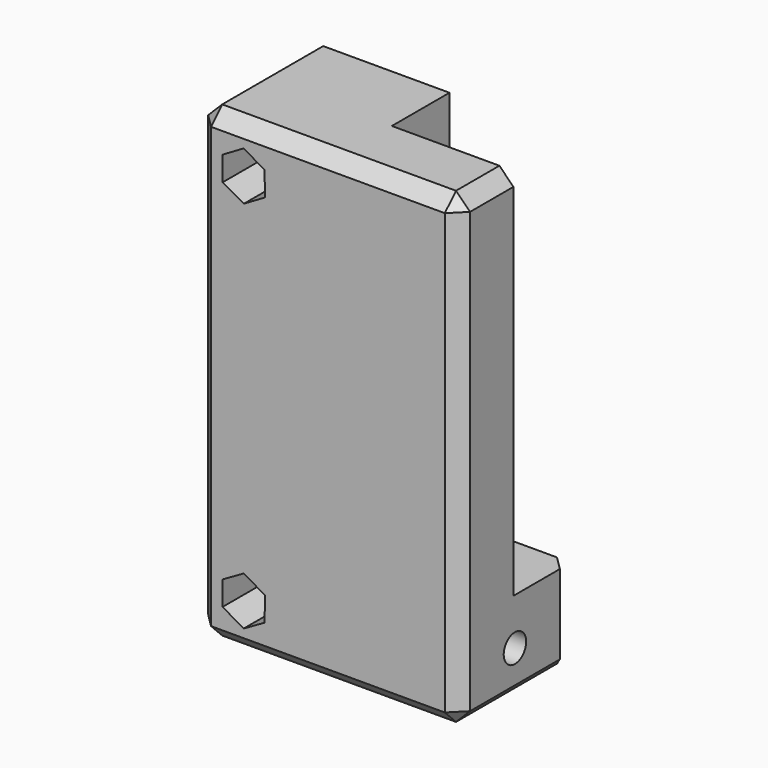
from build123d import *

# Parameters (mm, degrees)
F0_R     = 1.5
F1_DEPTH = 13
F0_W     = 7.7
F0_H     = 40
F2_DEPTH = 15
F3_R     = 1.5
F4_DEPTH = 15.001
F5_DEPTH = 5
F6_SIZE  = 1.5


with BuildPart() as f1:
    # F0 (on Right) → F1 (new body)
    with BuildSketch(Plane.YZ):
        Polygon((0, 50), (0, 0), (15, 0), (15, 10), (7.3, 10), (7.3, 50), align=None)
        with Locations((7.5, 5)):
            Circle(F0_R, mode=Mode.SUBTRACT)
    extrude(amount=F1_DEPTH)

    # F0 (on Right) → F2 (join)
    with BuildSketch(Plane.YZ):
        Polygon((0, 50), (0, 0), (15, 0), (15, 10), (7.3, 10), (7.3, 50), align=None)
        with Locations((7.5, 5)):
            Circle(F0_R, mode=Mode.SUBTRACT)
        with Locations((11.15, 30)):
            Rectangle(F0_W, F0_H)
        with Locations((7.5, 5)):
            Circle(F0_R)
    extrude(amount=-F2_DEPTH)

    # F3 (on face) → F4 (cut, through all)
    with BuildSketch(Plane.XZ):
        with Locations((-10, 45)):
            Circle(F3_R)
        with Locations((-10, 5)):
            Circle(F3_R)
    extrude(amount=-F4_DEPTH, mode=Mode.SUBTRACT)

    # F3 (on face) → F5 (cut, symmetric)
    with BuildSketch(Plane.XZ):
        Polygon((-10.010564, 2.401945), (-7.7553, 3.691824), (-7.744737, 6.289879), (-9.989436, 7.598055), (-12.2447, 6.308176), (-12.255263, 3.710121), align=None)
        with Locations((-10, 5)):
            Circle(F3_R, mode=Mode.SUBTRACT)
        Polygon((-7.758047, 46.312877), (-10.016008, 47.598027), (-12.257961, 46.28515), (-12.241953, 43.687123), (-9.983992, 42.401973), (-7.742039, 43.71485), align=None)
        with Locations((-10, 45)):
            Circle(F3_R, mode=Mode.SUBTRACT)
    extrude(amount=F5_DEPTH, both=True, mode=Mode.SUBTRACT)

    # F6
    f6_edges = [f1.edges().sort_by_distance(p)[0] for p in [
        (-15, 0, 25),
        (-1, 0, 50),
        (13, 0, 25),
        (-15, 7.5, 50),
        (-15, 7.5, 0),
        (-1, 0, 0),
        (13, 7.5, 0),
        (13, 3.65, 50),
        (13, 15, 5),
    ]]
    chamfer(f6_edges, length=F6_SIZE)


solid = f1.part
